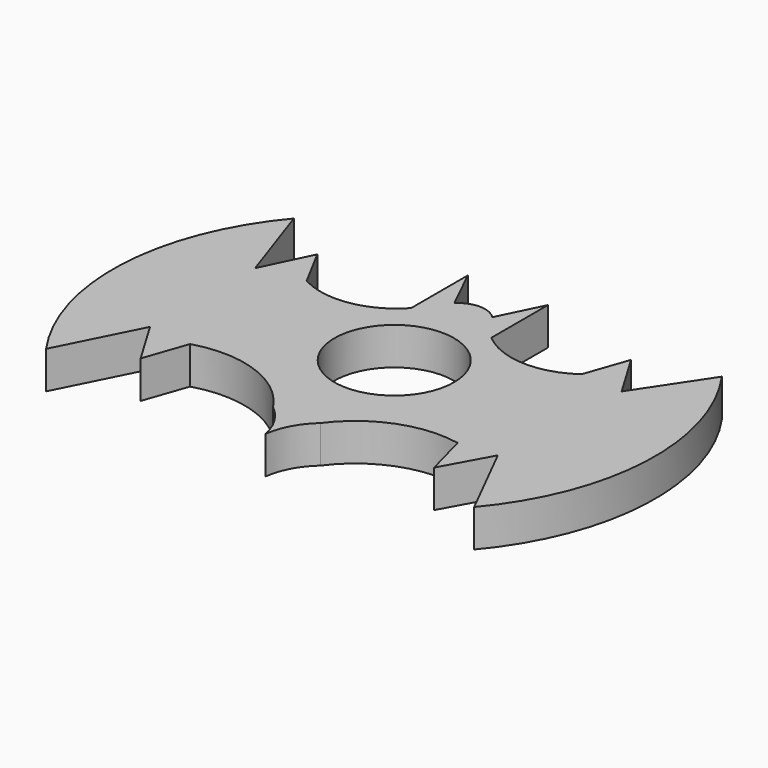
from build123d import *

# Parameters (mm, degrees)
F0_R     = 12.7
F0_R_2   = 11.176
F1_DEPTH = 7


with BuildPart() as f1:
    # F0 (on Top) → F1 (new body)
    with BuildSketch(Plane.XY):
        with BuildLine():
            Line((-34.0347428799, 10.0407234107), (-39.4287826318, 25.8310334972))
            ThreePointArc((-39.4287826318, 25.8310334972), (-49.9900963881, -1.1227458082), (-41.9203568823, -28.9243081997))
            Line((-41.9203568823, -28.9243081997), (-34.420360506, -14.0186176143))
            Line((-34.420360506, -14.0186176143), (-29.2602696984, -22.6658631364))
            Line((-29.2602696984, -22.6658631364), (-26.4620529027, -14.6181120741))
            ThreePointArc((-26.4620529027, -14.6181120741), (-14.1637665374, -14.9822916534), (-4.52611316, -22.6305667311))
            ThreePointArc((-4.52611316, -22.6305667311), (-1.6908403761, -25.8780046014), (-0.1272074495, -29.8954262311))
            ThreePointArc((-0.1272074495, -29.8954262311), (1.2367097468, -25.698504913), (3.97388684, -22.2369618714))
            ThreePointArc((3.97388684, -22.2369618714), (12.644433264, -15.5734140078), (23.5379470973, -14.6181120741))
            Line((23.5379470973, -14.6181120741), (25.7397303016, -22.8490576527))
            Line((25.7397303016, -22.8490576527), (30.579639494, -14.0186176143))
            Line((30.579639494, -14.0186176143), (38.0796431177, -28.924304553))
            ThreePointArc((38.0796431177, -28.924304553), (48.640956874, -1.9705252477), (40.5712173682, 25.8310371438))
            Line((40.5712173682, 25.8310371438), (32.0682425965, 13.0346596218))
            Line((32.0682425965, 13.0346596218), (26.9081517889, 21.6819051439))
            Line((26.9081517889, 21.6819051439), (24.1099349931, 13.6341540816))
            ThreePointArc((24.1099349931, 13.6341540816), (15.2359931939, 11.0077124587), (6.626828122, 14.4029025006))
            Line((6.626828122, 14.4029025006), (6.626828122, 27.6512976753))
            Line((6.626828122, 27.6512976753), (2.6754510519, 19.5639701469))
            ThreePointArc((2.6754510519, 19.5639701469), (-0.873171878, 21.0415739028), (-4.421794808, 19.5639701469))
            Line((-4.421794808, 19.5639701469), (-8.373171878, 27.6512976753))
            Line((-8.373171878, 27.6512976753), (-8.373171878, 14.4029025006))
            ThreePointArc((-8.373171878, 14.4029025006), (-16.5293148782, 10.0299892821), (-25.6484009718, 11.6071092754))
            Line((-25.6484009718, 11.6071092754), (-29.673149547, 19.1169503724))
            Line((-29.673149547, 19.1169503724), (-34.0347428799, 10.0407234107))
        make_face()
        Circle(F0_R, mode=Mode.SUBTRACT)
        Circle(F0_R)
        Circle(F0_R_2, mode=Mode.SUBTRACT)
    extrude(amount=F1_DEPTH)


solid = f1.part
